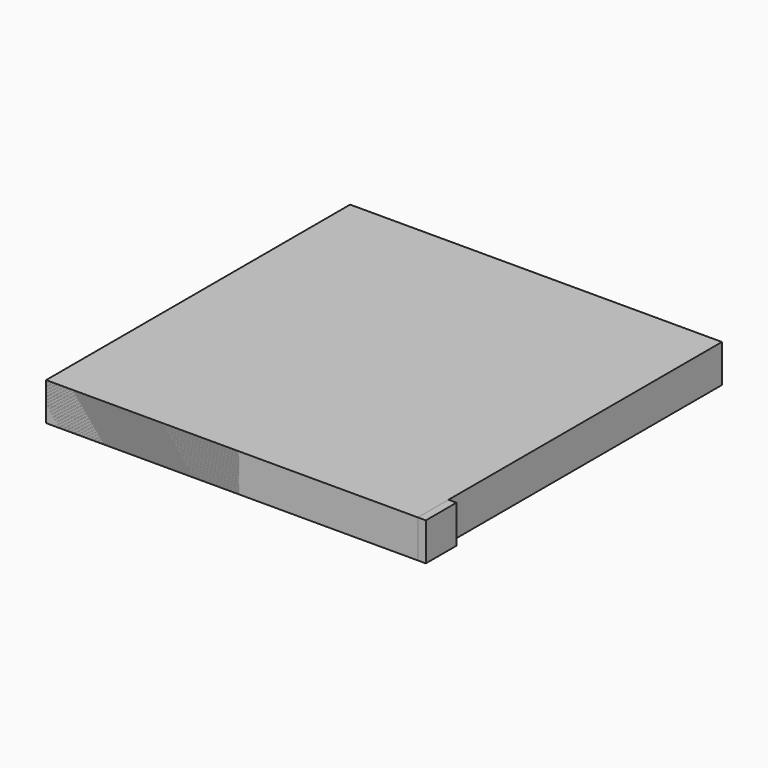
from build123d import *

# Parameters (mm, degrees)
SKETCH_W     = 34.929359
SKETCH_H     = 20.486658
PAD_DEPTH    = 10
SKETCH001_W  = 20.015697
SKETCH001_H  = 44.976456
PAD001_DEPTH = 10
SKETCH002_W  = 29.960587
SKETCH002_H  = 30.027189
PAD002_DEPTH = 10
SKETCH003_W  = 54.766457
SKETCH003_H  = 44.701084
PAD003_DEPTH = 10
SKETCH004_W  = 42.188831
SKETCH004_H  = 78.241425
PAD004_DEPTH = 10
SKETCH005_W  = 100.185661
SKETCH005_H  = 10.112617
PAD005_DEPTH = 10
SKETCH006_W  = 49.87516
SKETCH006_H  = 40.159164
PAD006_DEPTH = 10
SKETCH007_W  = 98.089394
SKETCH007_H  = 100.252266
PAD007_DEPTH = 10
SKETCH008_W  = 50.923298
SKETCH008_H  = 49.592381
PAD008_DEPTH = 10
SKETCH009_W  = 29.960587
SKETCH009_H  = 30.027189
PAD009_DEPTH = 10
SKETCH010_W  = 49.87516
SKETCH010_H  = 40.159164
PAD010_DEPTH = 10
SKETCH011_W  = 54.766457
SKETCH011_H  = 44.701084
PAD011_DEPTH = 10
SKETCH012_W  = 29.960587
SKETCH012_H  = 30.027189
PAD012_DEPTH = 10
SKETCH013_W  = 100.185661
SKETCH013_H  = 10.112617
PAD013_DEPTH = 10
SKETCH014_W  = 98.089394
SKETCH014_H  = 100.252266
PAD014_DEPTH = 10


with BuildPart() as body:
    # Sketch → Pad (new body)
    with BuildSketch(Plane.XY):
        with Locations((17.464679, 10.243329)):
            Rectangle(SKETCH_W, SKETCH_H)
    extrude(amount=PAD_DEPTH)


with BuildPart() as body001:
    # Sketch001 → Pad001 (new body)
    with BuildSketch(Plane.XY):
        with Locations((10.007848, 22.488228)):
            Rectangle(SKETCH001_W, SKETCH001_H)
    extrude(amount=PAD001_DEPTH)


with BuildPart() as body002:
    # Sketch002 → Pad002 (new body)
    with BuildSketch(Plane.XY):
        with Locations((14.980294, 15.013594)):
            Rectangle(SKETCH002_W, SKETCH002_H)
    extrude(amount=PAD002_DEPTH)


with BuildPart() as body003:
    # Sketch003 → Pad003 (new body)
    with BuildSketch(Plane.XY):
        with Locations((27.383228, 22.350542)):
            Rectangle(SKETCH003_W, SKETCH003_H)
    extrude(amount=PAD003_DEPTH)


with BuildPart() as body004:
    # Sketch004 → Pad004 (new body)
    with BuildSketch(Plane.XY):
        with Locations((21.094416, 39.120712)):
            Rectangle(SKETCH004_W, SKETCH004_H)
    extrude(amount=PAD004_DEPTH)


with BuildPart() as body005:
    # Sketch005 → Pad005 (new body)
    with BuildSketch(Plane.XY):
        with Locations((50.09283, 5.056309)):
            Rectangle(SKETCH005_W, SKETCH005_H)
    extrude(amount=PAD005_DEPTH)


with BuildPart() as body006:
    # Sketch006 → Pad006 (new body)
    with BuildSketch(Plane.XY):
        with Locations((24.93758, 20.079582)):
            Rectangle(SKETCH006_W, SKETCH006_H)
    extrude(amount=PAD006_DEPTH)


with BuildPart() as body007:
    # Sketch007 → Pad007 (new body)
    with BuildSketch(Plane.XY):
        with Locations((49.044697, 50.126133)):
            Rectangle(SKETCH007_W, SKETCH007_H)
    extrude(amount=PAD007_DEPTH)


with BuildPart() as body008:
    # Sketch008 → Pad008 (new body)
    with BuildSketch(Plane.XY):
        with Locations((25.461649, 24.79619)):
            Rectangle(SKETCH008_W, SKETCH008_H)
    extrude(amount=PAD008_DEPTH)


with BuildPart() as body009:
    # Sketch009 → Pad009 (new body)
    with BuildSketch(Plane.XY):
        with Locations((14.980294, 15.013594)):
            Rectangle(SKETCH009_W, SKETCH009_H)
    extrude(amount=PAD009_DEPTH)


with BuildPart() as body010:
    # Sketch010 → Pad010 (new body)
    with BuildSketch(Plane.XY):
        with Locations((24.93758, 20.079582)):
            Rectangle(SKETCH010_W, SKETCH010_H)
    extrude(amount=PAD010_DEPTH)


with BuildPart() as body011:
    # Sketch011 → Pad011 (new body)
    with BuildSketch(Plane.XY):
        with Locations((27.383228, 22.350542)):
            Rectangle(SKETCH011_W, SKETCH011_H)
    extrude(amount=PAD011_DEPTH)


with BuildPart() as body012:
    # Sketch012 → Pad012 (new body)
    with BuildSketch(Plane.XY):
        with Locations((14.980294, 15.013594)):
            Rectangle(SKETCH012_W, SKETCH012_H)
    extrude(amount=PAD012_DEPTH)


with BuildPart() as body013:
    # Sketch013 → Pad013 (new body)
    with BuildSketch(Plane.XY):
        with Locations((50.09283, 5.056309)):
            Rectangle(SKETCH013_W, SKETCH013_H)
    extrude(amount=PAD013_DEPTH)


with BuildPart() as body014:
    # Sketch014 → Pad014 (new body)
    with BuildSketch(Plane.XY):
        with Locations((49.044697, 50.126133)):
            Rectangle(SKETCH014_W, SKETCH014_H)
    extrude(amount=PAD014_DEPTH)


solid = Compound([body.part, body001.part, body002.part, body003.part, body004.part, body005.part, body006.part, body007.part, body008.part, body009.part, body010.part, body011.part, body012.part, body013.part, body014.part])
